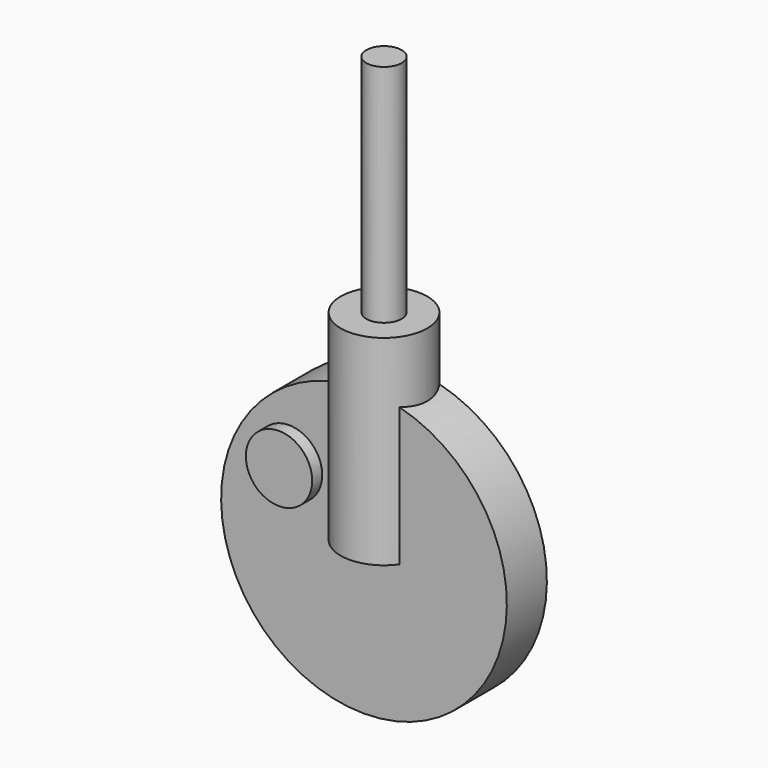
from build123d import *

# Parameters (mm, degrees)
F0_R     = 43.929469
F1_DEPTH = 203.2
F2_R     = 17.931427
F3_DEPTH = 228.6
F4_R     = 144.998966
F5_DEPTH = 25.4
F6_R     = 33.658576
F7_DEPTH = 12.7


with BuildPart() as f1:
    # F0 (on Top) → F1 (new body)
    with BuildSketch(Plane.XY):
        Circle(F0_R)
    extrude(amount=F1_DEPTH)

    # F2 (on face) → F3 (join)
    with BuildSketch(Plane.XY.offset(203.2)):
        Circle(F2_R)
    extrude(amount=F3_DEPTH)

    # F4 (on Front) → F5 (join, symmetric)
    with BuildSketch(Plane.XZ):
        Circle(F4_R)
    extrude(amount=F5_DEPTH, both=True)

    # F6 (on face) → F7 (join, symmetric)
    with BuildSketch(Plane.XZ.offset(25.4)):
        with Locations((-76.069236, 54.405343)):
            Circle(F6_R)
    extrude(amount=F7_DEPTH, both=True)


solid = f1.part
